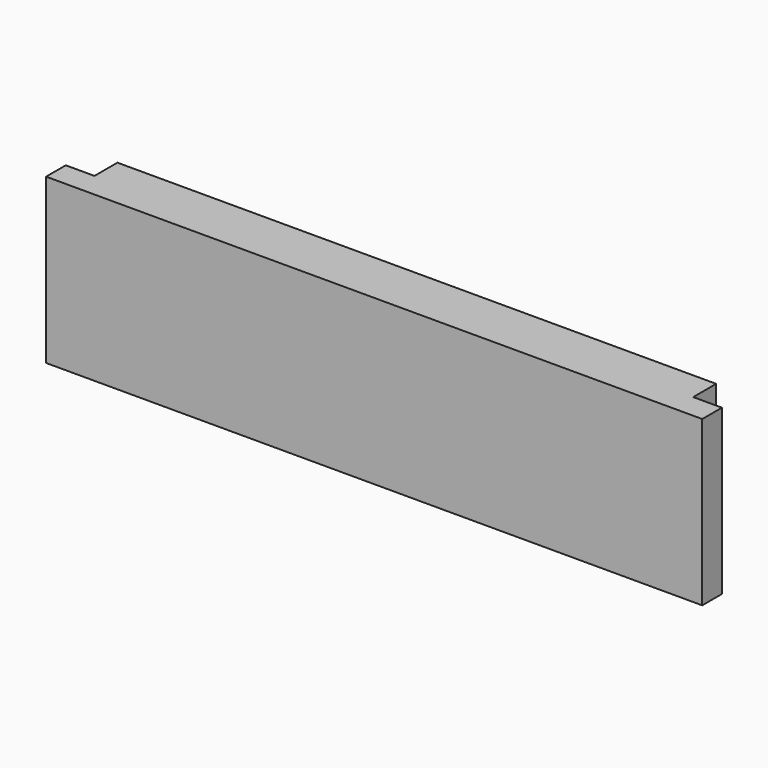
from build123d import *

# Parameters (mm, degrees)
F0_W     = 254
F0_H     = 20.6375
F1_DEPTH = 63.5
F2_W     = 11.1125
F2_H     = 11.1125
F3_DEPTH = 63.501


with BuildPart() as f1:
    # F0 (on Top) → F1 (new body)
    with BuildSketch(Plane.XY):
        with Locations((0, 10.31875)):
            Rectangle(F0_W, F0_H)
    extrude(amount=-F1_DEPTH)

    # F2 (on face) → F3 (cut, through all)
    with BuildSketch(Plane.XY):
        with Locations((-121.44375, 15.08125)):
            Rectangle(F2_W, F2_H)
        with Locations((121.44375, 15.08125)):
            Rectangle(F2_W, F2_H)
    extrude(amount=-F3_DEPTH, mode=Mode.SUBTRACT)


solid = f1.part
